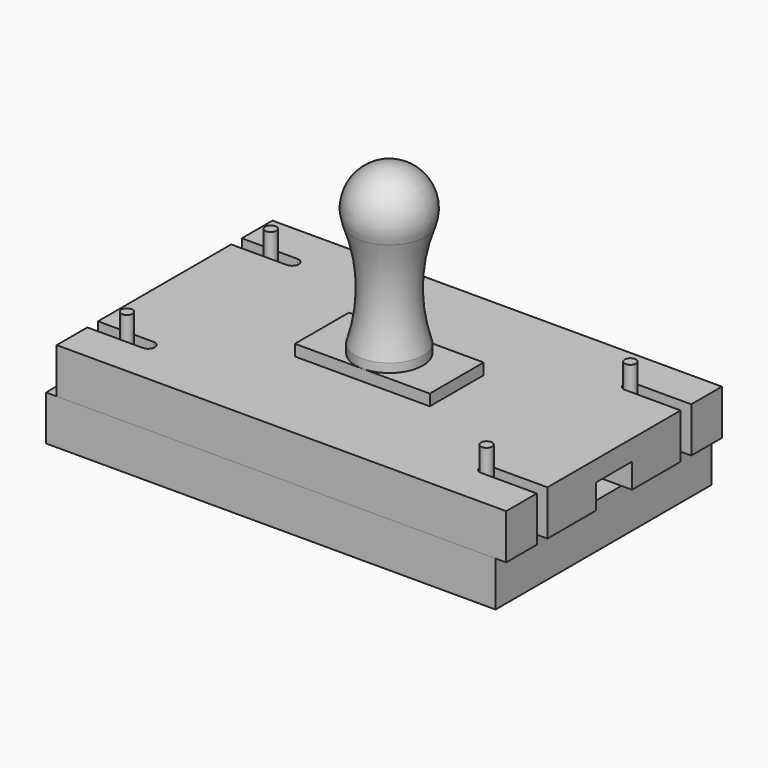
from build123d import *

# Parameters (mm, degrees)
SKETCH_W                      = 254
SKETCH_H                      = 152.4
PAD_DEPTH                     = 25.4
SKETCH001_R                   = 3.175
PAD001_DEPTH                  = 38.1
SKETCH001_MIRRORED_2_R        = 3.175
PAD001_MIRRORED_2_DEPTH       = 38.1
POCKET_DEPTH                  = 19.05
SKETCH006_W                   = 76.2
SKETCH006_H                   = 38.1
PAD003_DEPTH                  = 6.35
SKETCH003_W                   = 254
SKETCH003_H                   = 152.4
PAD002_DEPTH                  = 25.5
POCKET001_DEPTH               = 620.116876
POCKET001_MIRRORED002_2_DEPTH = 620.116876
POCKET002_DEPTH               = 14


with BuildPart() as bottom_block:
    # Sketch → Pad (new body)
    with BuildSketch(Plane.XY):
        Rectangle(SKETCH_W, SKETCH_H)
    extrude(amount=PAD_DEPTH)

    # Sketch001 (on Face6 of Pad) → Pad001 (join)
    with BuildSketch(Plane.XY.offset(25.4)):
        with Locations((-101.6, 50.8)):
            Circle(SKETCH001_R)
    pad001 = extrude(amount=PAD001_DEPTH)

    # Sketch001 Mirrored 2 → Pad001 Mirrored 2 (add)
    with BuildSketch(Plane(origin=(0, 0, 25.4), x_dir=(1, 0, 0), z_dir=(0, 0, -1))):
        with Locations((-101.6, 50.8)):
            Circle(SKETCH001_MIRRORED_2_R)
    pad001_mirrored_2 = extrude(amount=-PAD001_MIRRORED_2_DEPTH)

    # Mirrored001: Pad001, Pad001 Mirrored 2 across Sketch001 V_Axis
    add(pad001.mirror(Plane(origin=(0, 0, 25.4), x_dir=(0, 0, 1), z_dir=(1, 0, 0))))
    add(pad001_mirrored_2.mirror(Plane(origin=(0, 0, 25.4), x_dir=(0, 0, 1), z_dir=(1, 0, 0))))

    # Sketch002 (on Face5 of MultiTransform) → Pocket (cut)
    with BuildSketch(Plane.XY.offset(25.4)):
        with BuildLine():
            ThreePointArc((-74.586888, -12.7), (25.4, 0), (-74.586888, 12.7))
            Line((-127, 12.7), (-74.586888, 12.7))
            Line((-127, -12.7), (-127, 12.7))
            Line((-74.586888, -12.7), (-127, -12.7))
        make_face()
    extrude(amount=-POCKET_DEPTH, mode=Mode.SUBTRACT)


with BuildPart() as bottom_block_1:
    # Body placement: moved
    add(bottom_block.part.moved(Location((-6, 0, 0))))


with BuildPart() as handle:
    # Sketch006 (on Face1 of ShapeBinder001) → Pad003 (new body)
    with BuildSketch(Plane.XY.offset(50.9)):
        Rectangle(SKETCH006_W, SKETCH006_H)
    extrude(amount=PAD003_DEPTH)

    # Sketch007 → Revolution (revolve)
    with BuildSketch(Plane.XZ):
        with BuildLine():
            ThreePointArc((20.5553, 121.756458), (17.991321, 141.891932), (0, 151.29))
            Line((0, 57.25), (0, 151.29))
            Line((19.05, 57.25), (0, 57.25))
            Line((19.05, 62.25), (19.05, 57.25))
            ThreePointArc((20.5553, 121.756458), (14.856969, 92.128337), (19.05, 62.25))
        make_face()
    revolve(axis=Axis((0, 0, 0), (0, 0, 1)))


with BuildPart() as fusion:
    # Sketch003 (on Face1 of ShapeBinder) → Pad002 (new body)
    with BuildSketch(Plane.XY.offset(25.4)):
        Rectangle(SKETCH003_W, SKETCH003_H)
    extrude(amount=PAD002_DEPTH)

    # Sketch004 (on Face1 of ShapeBinder) → Pocket001 (cut, through all)
    with BuildSketch(Plane.XY.offset(25.4)):
        with BuildLine():
            Line((-127, 54.55), (-95.6, 54.55))
            ThreePointArc((-95.6, 47.05), (-91.85, 50.8), (-95.6, 54.55))
            Line((-95.6, 47.05), (-127, 47.05))
            Line((-127, 47.05), (-127, 54.55))
        make_face()
    pocket001 = extrude(amount=POCKET001_DEPTH, mode=Mode.SUBTRACT)

    # Sketch004 Mirrored002 2 → Pocket001 Mirrored002 2 (cut, through all)
    with BuildSketch(Plane(origin=(0, 0, 25.4), x_dir=(-1, 0, 0), z_dir=(0, 0, -1))):
        with BuildLine():
            Line((-127, 54.55), (-95.6, 54.55))
            ThreePointArc((-95.6, 47.05), (-91.85, 50.8), (-95.6, 54.55))
            Line((-95.6, 47.05), (-127, 47.05))
            Line((-127, 47.05), (-127, 54.55))
        make_face()
    pocket001_mirrored002_2 = extrude(amount=-POCKET001_MIRRORED002_2_DEPTH, mode=Mode.SUBTRACT)

    # Mirrored003: Pocket001, Pocket001 Mirrored002 2 across XZ
    add(pocket001.mirror(Plane.XZ), mode=Mode.SUBTRACT)
    add(pocket001_mirrored002_2.mirror(Plane.XZ), mode=Mode.SUBTRACT)

    # Sketch005 (on Face1 of ShapeBinder) → Pocket002 (cut)
    with BuildSketch(Plane.XY.offset(25.4)):
        with BuildLine():
            ThreePointArc((74.586888, 12.7), (-25.4, 0), (74.586888, -12.7))
            Line((127, -12.7), (74.586888, -12.7))
            Line((127, 12.7), (127, -12.7))
            Line((74.586888, 12.7), (127, 12.7))
        make_face()
    extrude(amount=POCKET002_DEPTH, mode=Mode.SUBTRACT)

    # Fusion: union Handle
    add(handle.part)


solid = Compound([bottom_block_1.part, fusion.part])
